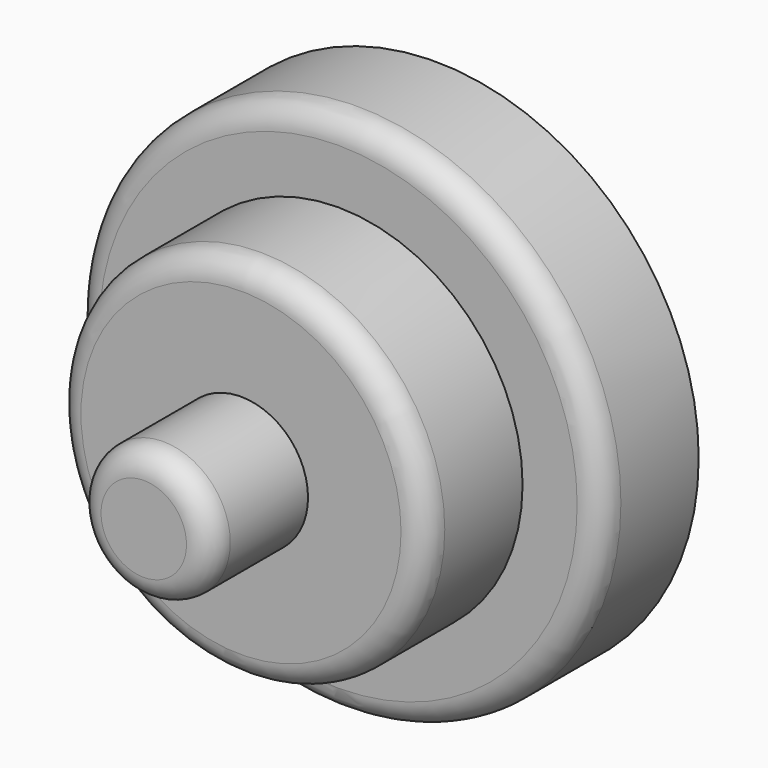
from build123d import *

# Parameters (mm, degrees)
F0_R      = 55.024553
F1_DEPTH  = 25.4
F2_R      = 38.533102
F2_R_2    = 14.009094
F3_DEPTH  = 25.4
F4_R      = 5.08
F3_FACE_R = 14.009094
F5_DEPTH  = 50.8
F6_R      = 5.08


with BuildPart() as f1:
    # F0 (on Front) → F1 (new body)
    with BuildSketch(Plane.XZ):
        Circle(F0_R)
    extrude(amount=F1_DEPTH)

    # F2 (on face) → F3 (join)
    with BuildSketch(Plane.XZ.offset(25.4)):
        Circle(F2_R)
        Circle(F2_R_2, mode=Mode.SUBTRACT)
    extrude(amount=F3_DEPTH)

    # F4
    f4_edges = [f1.edges().sort_by_distance(p)[0] for p in [
        (-55.024553, -25.4, 0),
        (-38.533102, -50.8, 0),
    ]]
    fillet(f4_edges, radius=F4_R)

    # F3_face (on face) → F5 (join)
    with BuildSketch(Plane.XZ.offset(25.4)):
        Circle(F3_FACE_R)
    extrude(amount=F5_DEPTH)

    # F6
    f6_edges = [f1.edges().sort_by_distance(p)[0] for p in [
        (-14.009094, -76.2, 0),
    ]]
    fillet(f6_edges, radius=F6_R)


solid = f1.part
